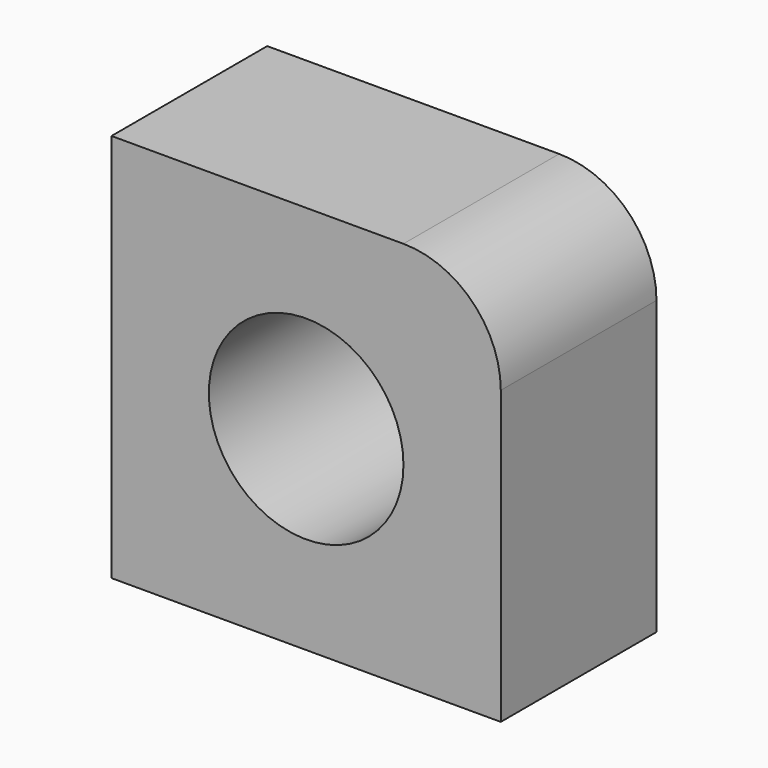
from build123d import *

# Parameters (mm, degrees)
F0_R     = 5
F1_DEPTH = 10


with BuildPart() as f1:
    # F0 (on Front) → F1 (new body)
    with BuildSketch(Plane.XZ):
        with BuildLine():
            Line((-10, -10), (10, -10))
            Line((10, -10), (10, 5))
            ThreePointArc((10, 5), (8.535534, 8.535534), (5, 10))
            Line((5, 10), (-10, 10))
            Line((-10, 10), (-10, -10))
        make_face()
        Circle(F0_R, mode=Mode.SUBTRACT)
    extrude(amount=F1_DEPTH)


solid = f1.part
